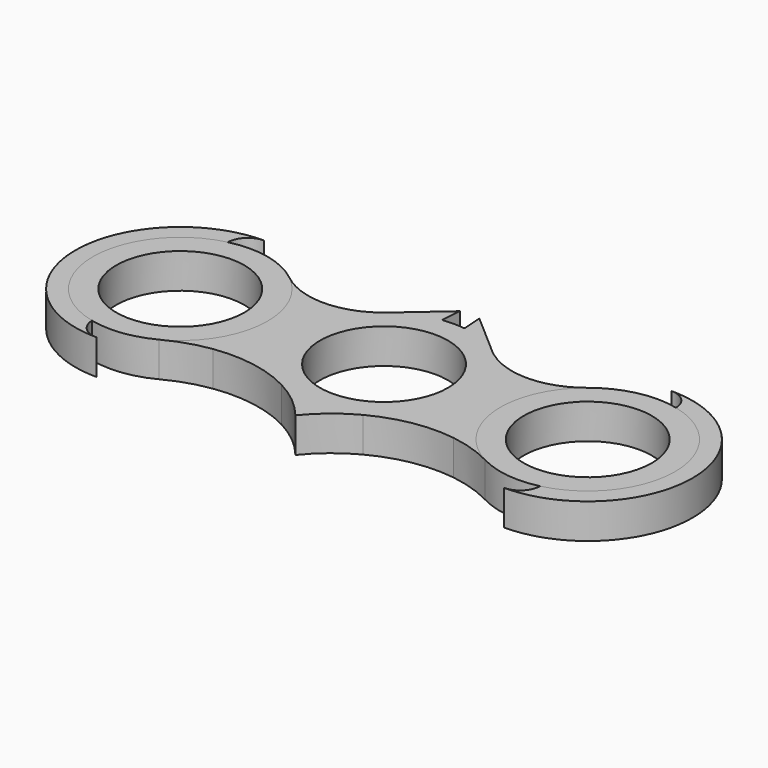
from build123d import *

# Parameters (mm, degrees)
F0_R     = 11
F1_DEPTH = 6
F2_DEPTH = 6
F3_DEPTH = 6


with BuildPart() as f1:
    # F0 (on Top) → F1 (new body)
    with BuildSketch(Plane.XY):
        with BuildLine():
            ThreePointArc((15, 0), (13.635035, 6.251866), (9.788557, 11.365921))
            ThreePointArc((9.788557, 11.365921), (9.359952, 11.69459), (8.945369, 12.04078))
            ThreePointArc((8.945369, 12.04078), (5.615181, 13.90934), (1.921089, 14.876472))
            ThreePointArc((1.921089, 14.876472), (0, 15), (-1.921089, 14.876472))
            ThreePointArc((-1.921089, 14.876472), (-5.615181, 13.90934), (-8.945369, 12.04078))
            ThreePointArc((-8.945369, 12.04078), (-9.359952, 11.69459), (-9.788557, 11.365921))
            ThreePointArc((-9.788557, 11.365921), (-14.904796, -1.687324), (-7, -13.266499))
            ThreePointArc((-7, -13.266499), (0, -15), (7, -13.266499))
            ThreePointArc((7, -13.266499), (12.845233, -7.745967), (15, 0))
        make_face()
        Circle(F0_R, mode=Mode.SUBTRACT)
    extrude(amount=F1_DEPTH)


with BuildPart() as f2:
    # F0 (on Top) → F2 (new body)
    with BuildSketch(Plane.XY):
        with BuildLine():
            ThreePointArc((-35, -18), (-37.444205, -17.005167), (-38.498938, -14.586207))
            ThreePointArc((-38.498938, -14.586207), (-50, 0), (-38.498938, 14.586207))
            ThreePointArc((-38.498938, 14.586207), (-37.444205, 17.005167), (-35, 18))
            ThreePointArc((-35, 18), (-53, 0), (-35, -18))
        make_face()
        with BuildLine():
            ThreePointArc((-28, -13.266499), (-24.436628, -11.762202), (-20.668268, -10.89043))
            ThreePointArc((-20.668268, -10.89043), (-17.036305, -1.142662), (-19.403892, 8.986735))
            ThreePointArc((-19.403892, 8.986735), (-22.690094, 9.932365), (-25.616028, 11.702182))
            ThreePointArc((-25.616028, 11.702182), (-21.476694, 6.490008), (-20, 0))
            ThreePointArc((-20, 0), (-22.154767, -7.745967), (-28, -13.266499))
        make_face()
        with BuildLine():
            ThreePointArc((-20.668268, -10.89043), (-13.64643, -10.998704), (-7, -13.266499))
            ThreePointArc((-7, -13.266499), (-14.904796, -1.687324), (-9.788557, 11.365921))
            ThreePointArc((-9.788557, 11.365921), (-14.360743, 9.224646), (-19.403892, 8.986735))
            ThreePointArc((-19.403892, 8.986735), (-17.036305, -1.142662), (-20.668268, -10.89043))
        make_face()
        with BuildLine():
            ThreePointArc((15, 0), (13.635035, 6.251866), (9.788557, 11.365921))
            ThreePointArc((9.788557, 11.365921), (9.359952, 11.69459), (8.945369, 12.04078))
            ThreePointArc((8.945369, 12.04078), (5.615181, 13.90934), (1.921089, 14.876472))
            ThreePointArc((1.921089, 14.876472), (0, 15), (-1.921089, 14.876472))
            ThreePointArc((-1.921089, 14.876472), (-5.615181, 13.90934), (-8.945369, 12.04078))
            ThreePointArc((-8.945369, 12.04078), (-9.359952, 11.69459), (-9.788557, 11.365921))
            ThreePointArc((-9.788557, 11.365921), (-14.904796, -1.687324), (-7, -13.266499))
            ThreePointArc((-7, -13.266499), (0, -15), (7, -13.266499))
            ThreePointArc((7, -13.266499), (12.845233, -7.745967), (15, 0))
        make_face()
        Circle(F0_R, mode=Mode.SUBTRACT)
        with BuildLine():
            ThreePointArc((0, -19.024112), (3.207081, -15.78918), (7, -13.266499))
            ThreePointArc((7, -13.266499), (0, -15), (-7, -13.266499))
            ThreePointArc((-7, -13.266499), (-3.207081, -15.78918), (0, -19.024112))
        make_face()
        with BuildLine():
            ThreePointArc((19.403892, 8.986735), (14.360743, 9.224646), (9.788557, 11.365921))
            ThreePointArc((9.788557, 11.365921), (13.635035, 6.251866), (15, 0))
            ThreePointArc((15, 0), (12.845233, -7.745967), (7, -13.266499))
            ThreePointArc((7, -13.266499), (13.64643, -10.998704), (20.668268, -10.89043))
            ThreePointArc((20.668268, -10.89043), (17.036305, -1.142662), (19.403892, 8.986735))
        make_face()
        with BuildLine():
            ThreePointArc((25.616028, 11.702182), (22.690094, 9.932365), (19.403892, 8.986735))
            ThreePointArc((19.403892, 8.986735), (17.036305, -1.142662), (20.668268, -10.89043))
            ThreePointArc((20.668268, -10.89043), (24.436628, -11.762202), (28, -13.266499))
            ThreePointArc((28, -13.266499), (20.067907, -1.425694), (25.616028, 11.702182))
        make_face()
        with BuildLine():
            ThreePointArc((35, 18), (37.444205, 17.005167), (38.498938, 14.586207))
            ThreePointArc((38.498938, 14.586207), (46.778881, 9.287517), (50, 0))
            ThreePointArc((50, 0), (46.778881, -9.287517), (38.498938, -14.586207))
            ThreePointArc((38.498938, -14.586207), (37.444205, -17.005167), (35, -18))
            ThreePointArc((35, -18), (53, 0), (35, 18))
        make_face()
        with BuildLine():
            ThreePointArc((-8.945369, 12.04078), (-5.615181, 13.90934), (-1.921089, 14.876472))
            Line((-1.921089, 14.876472), (-1.680186, 18.368172))
            Line((-1.680186, 18.368172), (-8.945369, 12.04078))
        make_face()
        with BuildLine():
            ThreePointArc((1.921089, 14.876472), (5.615181, 13.90934), (8.945369, 12.04078))
            Line((8.945369, 12.04078), (1.680186, 18.368172))
            Line((1.680186, 18.368172), (1.921089, 14.876472))
        make_face()
    extrude(amount=F2_DEPTH)


with BuildPart() as f3:
    # F0 (on Top) → F3 (new body)
    with BuildSketch(Plane.XY):
        with BuildLine():
            ThreePointArc((38.498938, 14.586207), (31.723141, 14.637698), (25.616028, 11.702182))
            ThreePointArc((25.616028, 11.702182), (20.067907, -1.425694), (28, -13.266499))
            ThreePointArc((28, -13.266499), (33.129234, -14.882884), (38.498938, -14.586207))
            ThreePointArc((38.498938, -14.586207), (46.778881, -9.287517), (50, 0))
            ThreePointArc((50, 0), (46.778881, 9.287517), (38.498938, 14.586207))
        make_face()
        with Locations((35, 0)):
            Circle(F0_R, mode=Mode.SUBTRACT)
        with BuildLine():
            ThreePointArc((-38.498938, -14.586207), (-33.129234, -14.882884), (-28, -13.266499))
            ThreePointArc((-28, -13.266499), (-22.154767, -7.745967), (-20, 0))
            ThreePointArc((-20, 0), (-21.476694, 6.490008), (-25.616028, 11.702182))
            ThreePointArc((-25.616028, 11.702182), (-31.723141, 14.637698), (-38.498938, 14.586207))
            ThreePointArc((-38.498938, 14.586207), (-50, 0), (-38.498938, -14.586207))
        make_face()
        with Locations((-35, 0)):
            Circle(F0_R, mode=Mode.SUBTRACT)
    extrude(amount=F3_DEPTH)


solid = Compound([f1.part, f2.part, f3.part])
